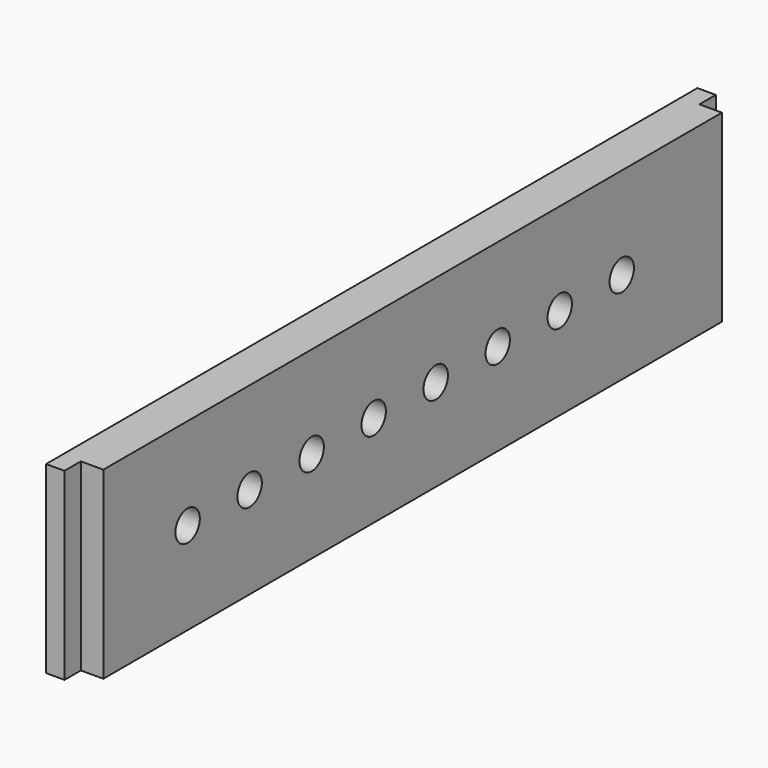
from build123d import *

# Parameters (mm, degrees)
CYLINDER006_R     = 1.49
CYLINDER006_DEPTH = 10
ARRAY015_Y_COUNT  = 8
ARRAY015_Y_PITCH  = 7.58
BOX051_W          = 10
BOX051_H          = 10
BOX051_DEPTH      = 31
BOX050_W          = 10
BOX050_H          = 10
BOX050_DEPTH      = 30
BOX049_W          = 10
BOX049_H          = 10
BOX049_DEPTH      = 25
BOX048_W          = 10
BOX048_H          = 10
BOX048_DEPTH      = 25
BOX046_W          = 2
BOX046_H          = 80
BOX046_DEPTH      = 18
BOX047_W          = 4
BOX047_H          = 76
BOX047_DEPTH      = 18


with BuildPart() as array015:
    # Cylinder006 → Cylinder006 (new body)
    with BuildSketch(Plane(origin=(143, 6, 13), x_dir=(0, 0, -1), z_dir=(1, 0, 0))):
        Circle(CYLINDER006_R)
    extrude(amount=CYLINDER006_DEPTH)

    # Array015 Y: Array015 ×8


with BuildPart() as array015_1:
    add(array015.part)
    with Locations(*[(0, i * ARRAY015_Y_PITCH, 0) for i in range(1, ARRAY015_Y_COUNT)]):
        add(array015.part)


with BuildPart() as array015_2:
    # Array015 placement: moved
    add(array015_1.part.moved(Location((-30, 7.5, 0))))


with BuildPart() as obj1:
    # Box051 → Box051 (new body)
    with BuildSketch(Plane(origin=(110, 80.8, 0), x_dir=(1, 0, 0), z_dir=(0, 0, 1))):
        with Locations((5, 5)):
            Rectangle(BOX051_W, BOX051_H)
    extrude(amount=BOX051_DEPTH)


with BuildPart() as obj2:
    # Box050 → Box050 (new body)
    with BuildSketch(Plane(origin=(109, -8.8, 0), x_dir=(1, 0, 0), z_dir=(0, 0, 1))):
        with Locations((5, 5)):
            Rectangle(BOX050_W, BOX050_H)
    extrude(amount=BOX050_DEPTH)


with BuildPart() as obj3:
    # Box049 → Box049 (new body)
    with BuildSketch(Plane(origin=(114.8, 78.8, 0), x_dir=(1, 0, 0), z_dir=(0, 0, 1))):
        with Locations((5, 5)):
            Rectangle(BOX049_W, BOX049_H)
    extrude(amount=BOX049_DEPTH)


with BuildPart() as obj4:
    # Box048 → Box048 (new body)
    with BuildSketch(Plane(origin=(114.8, -6.8, 0), x_dir=(1, 0, 0), z_dir=(0, 0, 1))):
        with Locations((5, 5)):
            Rectangle(BOX048_W, BOX048_H)
    extrude(amount=BOX048_DEPTH)


with BuildPart() as obj5:
    # Box046 → Box046 (new body)
    with BuildSketch(Plane(origin=(113, 1, 23), x_dir=(1, 0, 0), z_dir=(0, 0, 1))):
        with Locations((1, 40)):
            Rectangle(BOX046_W, BOX046_H)
    extrude(amount=BOX046_DEPTH)


with BuildPart() as cut051:
    # Box047 → Box047 (new body)
    with BuildSketch(Plane(origin=(113, 3, 23), x_dir=(1, 0, 0), z_dir=(0, 0, 1))):
        with Locations((2, 38)):
            Rectangle(BOX047_W, BOX047_H)
    extrude(amount=BOX047_DEPTH)

    # Fusion008031: union obj5
    add(obj5.part)


with BuildPart() as cut051_1:
    # Fusion008031 placement: moved
    add(cut051.part.moved(Location((0, 0, -19))))

    # Cut047: cut obj4
    add(obj4.part, mode=Mode.SUBTRACT)

    # Cut048: cut obj3
    add(obj3.part, mode=Mode.SUBTRACT)

    # Cut049: cut obj2
    add(obj2.part, mode=Mode.SUBTRACT)

    # Cut050: cut obj1
    add(obj1.part, mode=Mode.SUBTRACT)

    # Cut051: cut Array015
    add(array015_2.part, mode=Mode.SUBTRACT)


solid = cut051_1.part
